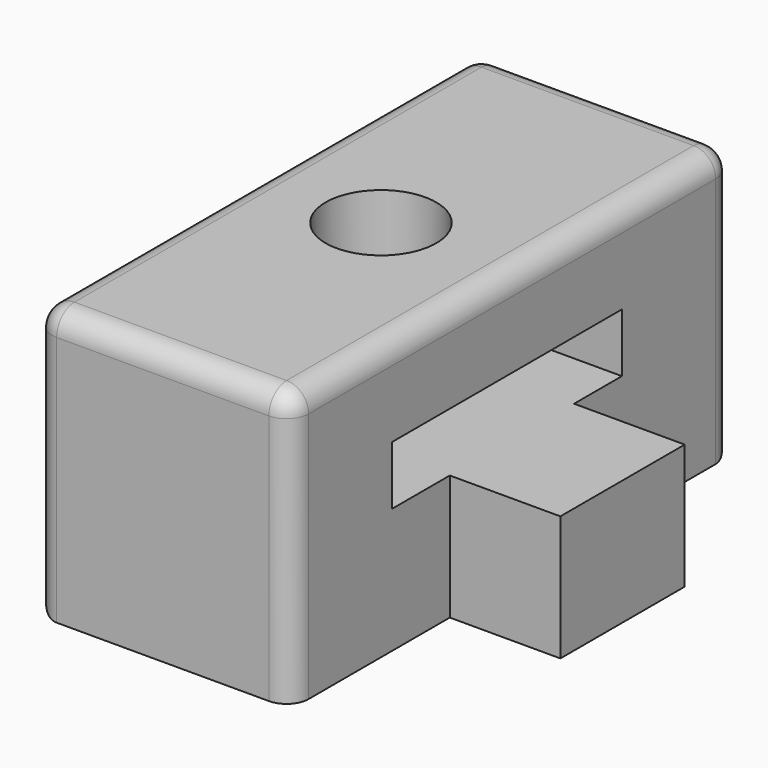
from build123d import *

# Parameters (mm, degrees)
F0_W          = 58.8852874935
F0_H          = 62.7336800098
F1_DEPTH      = 63.5
F2_W          = 65.9335851669
F2_H          = 13.4996175766
F3_DEPTH      = 30.1423424313
F3_DEPTH_BACK = 28.7439450622
F4_R          = 5.08
F5_R          = 5.08
F6_R          = 5.08
F7_W          = 35.6836467981
F7_H          = 28.7272408605
F8_DEPTH      = 25.4
F10_D         = 25.4


with BuildPart() as f1:
    # F0 (on Front) → F1 (new body, symmetric)
    with BuildSketch(Plane.XZ):
        with Locations((0.6986986846, 2.6395991445)):
            Rectangle(F0_W, F0_H)
    extrude(amount=F1_DEPTH, both=True)

    # F2 (on Right) → F3 (cut, two sides)
    with BuildSketch(Plane.YZ) as f3_sk:
        with Locations((-1.4819055796, 6.7498087883)):
            Rectangle(F2_W, F2_H)
    extrude(amount=F3_DEPTH, mode=Mode.SUBTRACT)
    extrude(f3_sk.sketch, amount=-F3_DEPTH_BACK, mode=Mode.SUBTRACT)

    # F4
    f4_edges = [f1.edges().sort_by_distance(p)[0] for p in [
        (0.698699, 63.5, 34.006439),
    ]]
    fillet(f4_edges, radius=F4_R)

    # F5
    f5_edges = [f1.edges().sort_by_distance(p)[0] for p in [
        (0.698699, -63.5, 34.006439),
    ]]
    fillet(f5_edges, radius=F5_R)

    # F6
    f6_edges = [f1.edges().sort_by_distance(p)[0] for p in [
        (-28.743945, 0, -28.727241),
        (-28.743945, -63.5, 0.099599),
        (-28.743945, 63.5, 0.099599),
        (30.141342, 63.5, 0.099599),
        (30.141342, 0, 34.006439),
        (-28.743945, 0, 34.006439),
        (0.698699, 63.5, -28.727241),
    ]]
    fillet(f6_edges, radius=F6_R)

    # F7 (on face) → F8 (join)
    with BuildSketch(Plane.YZ.offset(30.1413424313)):
        with Locations((-0.0774413347, -14.3636204302)):
            Rectangle(F7_W, F7_H)
    extrude(amount=F8_DEPTH)

    # F10 (through all)
    with Locations(Plane.XY.offset(34.0064391494)):
        with Locations((0, 0)):
            Hole(F10_D / 2)


solid = f1.part
